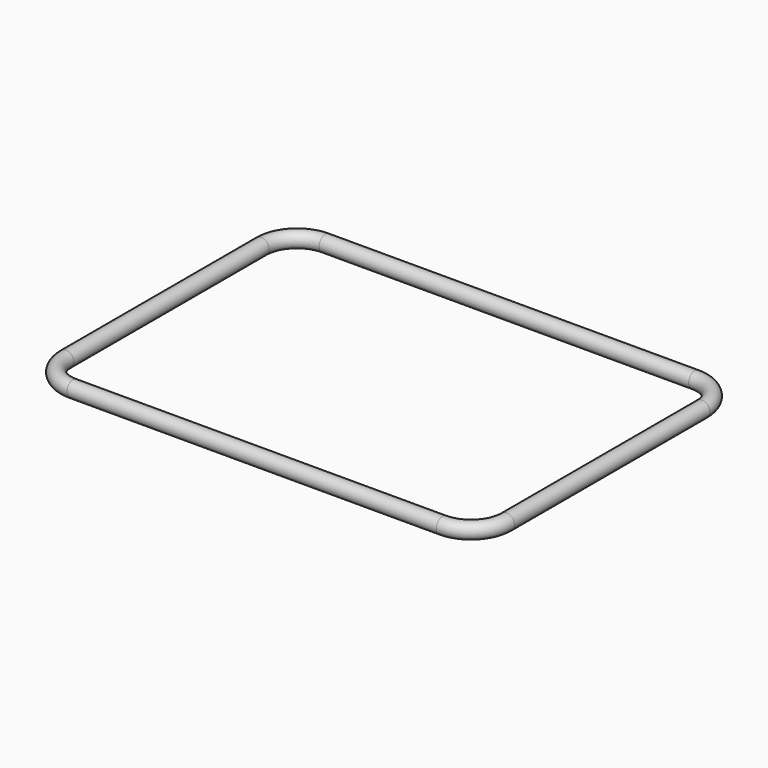
from build123d import *

# Parameters (mm, degrees)
F2_R = 0.25


with BuildPart() as f3:
    # F3: sweep along a path in F0
    with BuildLine(Plane.XY) as f3_path:
        Line((5.9, 5.035), (-5.9, 5.035))
        ThreePointArc((-5.9, 5.035), (-6.7025661966, 4.7025661966), (-7.035, 3.9))
        Line((-7.035, 3.9), (-7.035, -3.9))
        ThreePointArc((-7.035, -3.9), (-6.7025661966, -4.7025661966), (-5.9, -5.035))
        Line((-5.9, -5.035), (5.9, -5.035))
        ThreePointArc((5.9, -5.035), (6.7025661966, -4.7025661966), (7.035, -3.9))
        Line((7.035, -3.9), (7.035, 3.9))
        ThreePointArc((7.035, 3.9), (6.7025661966, 4.7025661966), (5.9, 5.035))
    # F2 (on plane+point) → F3 (sweep)
    with BuildSketch(Plane.XZ.offset(3.9)):
        with Locations((-7.035, 0)):
            Circle(F2_R)
    sweep(path=f3_path.line)


solid = f3.part
